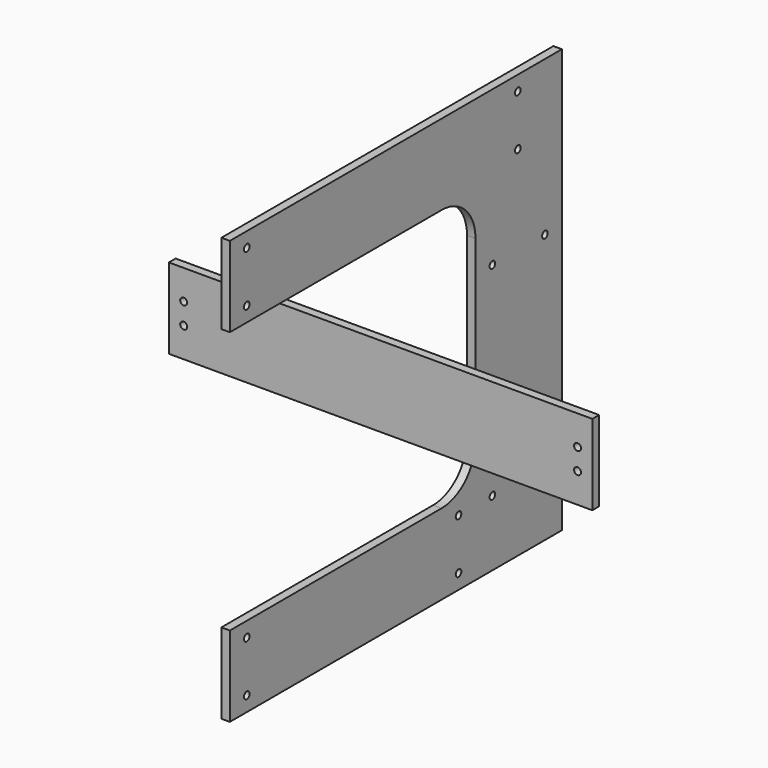
from build123d import *

# Parameters (mm, degrees)
F0_W     = 200
F0_H     = 38
F0_R     = 1.65
F1_DEPTH = 4
F2_R     = 1.65
F3_DEPTH = 4


with BuildPart() as f1:
    # F0 (on Front) → F1 (new body)
    with BuildSketch(Plane.XZ):
        Rectangle(F0_W, F0_H)
        with Locations((-93, -5)):
            Circle(F0_R, mode=Mode.SUBTRACT)
        with Locations((-93, 5)):
            Circle(F0_R, mode=Mode.SUBTRACT)
        with Locations((93, -5)):
            Circle(F0_R, mode=Mode.SUBTRACT)
        with Locations((93, 5)):
            Circle(F0_R, mode=Mode.SUBTRACT)
    extrude(amount=F1_DEPTH)


with BuildPart() as f3:
    # F2 (on Right) → F3 (new body)
    with BuildSketch(Plane.YZ):
        with BuildLine():
            Line((98, -100), (98, 100))
            Line((98, 100), (-98, 100))
            Line((-98, 100), (-98, 62))
            Line((-98, 62), (27, 62))
            ThreePointArc((27, 62), (41.142136, 56.142136), (47, 42))
            Line((47, 42), (47, -42))
            ThreePointArc((47, -42), (41.142136, -56.142136), (27, -62))
            Line((27, -62), (-98, -62))
            Line((-98, -62), (-98, -100))
            Line((-98, -100), (98, -100))
        make_face()
        with Locations((-88, -93)):
            Circle(F2_R, mode=Mode.SUBTRACT)
        with Locations((-88, -69)):
            Circle(F2_R, mode=Mode.SUBTRACT)
        with Locations((37, -93)):
            Circle(F2_R, mode=Mode.SUBTRACT)
        with Locations((37, -69)):
            Circle(F2_R, mode=Mode.SUBTRACT)
        with Locations((57, -69)):
            Circle(F2_R, mode=Mode.SUBTRACT)
        with Locations((88, -69)):
            Circle(F2_R, mode=Mode.SUBTRACT)
        with Locations((-88, 69)):
            Circle(F2_R, mode=Mode.SUBTRACT)
        with Locations((-88, 93)):
            Circle(F2_R, mode=Mode.SUBTRACT)
        with Locations((57, 27)):
            Circle(F2_R, mode=Mode.SUBTRACT)
        with Locations((88, 27)):
            Circle(F2_R, mode=Mode.SUBTRACT)
        with Locations((72, 69)):
            Circle(F2_R, mode=Mode.SUBTRACT)
        with Locations((72, 93)):
            Circle(F2_R, mode=Mode.SUBTRACT)
        with BuildLine():
            Line((98, -100), (98, 100))
            Line((98, 100), (-98, 100))
            Line((-98, 100), (-98, 62))
            Line((-98, 62), (27, 62))
            ThreePointArc((27, 62), (41.142136, 56.142136), (47, 42))
            Line((47, 42), (47, -42))
            ThreePointArc((47, -42), (41.142136, -56.142136), (27, -62))
            Line((27, -62), (-98, -62))
            Line((-98, -62), (-98, -100))
            Line((-98, -100), (98, -100))
        make_face()
        with Locations((-88, -93)):
            Circle(F2_R, mode=Mode.SUBTRACT)
        with Locations((-88, -69)):
            Circle(F2_R, mode=Mode.SUBTRACT)
        with Locations((37, -93)):
            Circle(F2_R, mode=Mode.SUBTRACT)
        with Locations((37, -69)):
            Circle(F2_R, mode=Mode.SUBTRACT)
        with Locations((57, -69)):
            Circle(F2_R, mode=Mode.SUBTRACT)
        with Locations((88, -69)):
            Circle(F2_R, mode=Mode.SUBTRACT)
        with Locations((-88, 69)):
            Circle(F2_R, mode=Mode.SUBTRACT)
        with Locations((-88, 93)):
            Circle(F2_R, mode=Mode.SUBTRACT)
        with Locations((57, 27)):
            Circle(F2_R, mode=Mode.SUBTRACT)
        with Locations((88, 27)):
            Circle(F2_R, mode=Mode.SUBTRACT)
        with Locations((72, 69)):
            Circle(F2_R, mode=Mode.SUBTRACT)
        with Locations((72, 93)):
            Circle(F2_R, mode=Mode.SUBTRACT)
    extrude(amount=F3_DEPTH)


solid = Compound([f1.part, f3.part])
